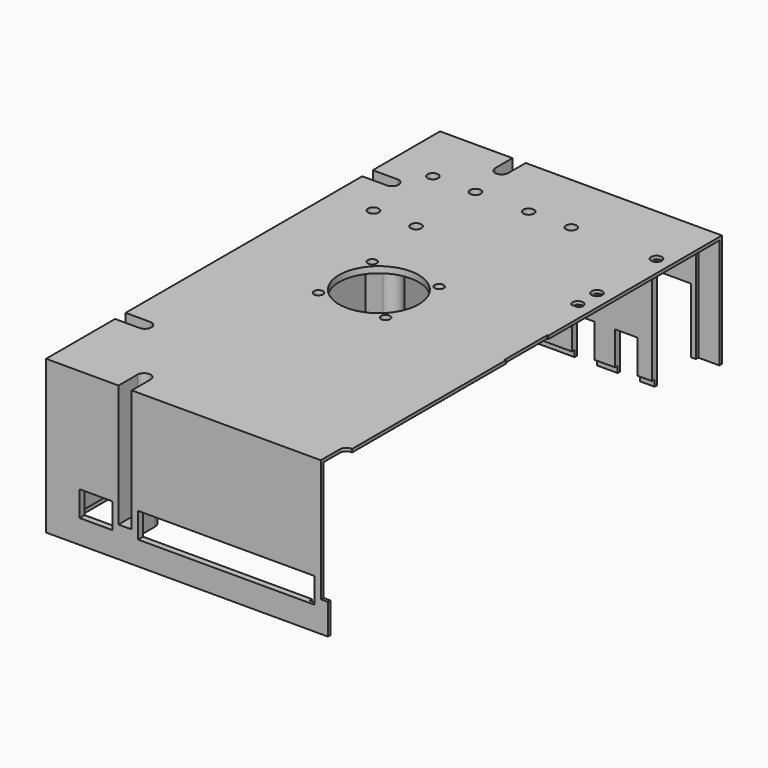
from build123d import *

# Parameters (mm, degrees)
SKETCH_W        = 134.5
SKETCH_H        = 235
PAD_DEPTH       = 3
SKETCH001_W     = 229
SKETCH001_H     = 1.5
POCKET_DEPTH    = 10
PAD001_DEPTH    = 70
SKETCH004_R     = 1.65
HOLE_DEPTH      = 73.001
POCKET003_DEPTH = 58.4
SKETCH005_W     = 10
SKETCH005_H     = 78.808915
POCKET005_DEPTH = 1.5
SKETCH006_W     = 10
SKETCH006_H     = 73.5
POCKET006_DEPTH = 1.5
SKETCH008_W     = 133
SKETCH008_H     = 232
POCKET007_DEPTH = 3
SKETCH009_W     = 131.5
SKETCH009_H     = 229
POCKET008_DEPTH = 8.6
SKETCH010_W     = 15.8
SKETCH010_H     = 12.1
SKETCH010_W_2   = 84.3
POCKET009_DEPTH = 3
SKETCH011_W     = 15
SKETCH011_H     = 16.6
SKETCH011_W_2   = 16.4
SKETCH011_H_2   = 14.1
POCKET010_DEPTH = 3
SKETCH012_W     = 10.7
SKETCH012_H     = 25
POCKET011_DEPTH = 3
POCKET012_DEPTH = 3
SKETCH014_R     = 19
SKETCH014_R_2   = 2.15
POCKET013_DEPTH = 3
SKETCH015_R     = 2.55
POCKET014_DEPTH = 3
SKETCH016_R     = 2.55
POCKET015_DEPTH = 3
SKETCH017_W     = 0.6
SKETCH017_H     = 25.4
POCKET016_DEPTH = 10


with BuildPart() as part:
    # Sketch → Pad (new body)
    with BuildSketch(Plane(origin=(0, 0, 19.5), x_dir=(1, 0, 0), z_dir=(0, 0, -1))):
        with Locations((-67.25, 0)):
            Rectangle(SKETCH_W, SKETCH_H)
    extrude(amount=PAD_DEPTH)

    # Sketch001 (on Face2 of Pad) → Pocket (cut)
    with BuildSketch(Plane(origin=(0, 0, 19.5), x_dir=(0, -1, 0), z_dir=(1, 0, 0))):
        with Locations((0, 2.25)):
            Rectangle(SKETCH001_W, SKETCH001_H)
    extrude(amount=-POCKET_DEPTH, mode=Mode.SUBTRACT)

    # Sketch003 (on Face5 of Pocket) → Pad001 (join)
    with BuildSketch(Plane(origin=(0, 0, 16.5), x_dir=(1, 0, 0), z_dir=(0, 0, -1))):
        with BuildLine():
            Line((0, 117.5), (-134.5, 117.5))
            Line((-134.5, 117.5), (-134.5, -117.5))
            Line((-134.5, -117.5), (0, -117.5))
            Line((0, -117.5), (0, -114.5))
            Line((-91.783702, -114.5), (0, -114.5))
            Line((-91.783702, -106.1), (-91.783702, -114.5))
            ThreePointArc((-91.783702, -106.1), (-96.757711, -101.609149), (-101.73172, -106.1))
            Line((-101.73172, -106.1), (-101.73172, -114.5))
            Line((-131.5, -114.5), (-101.73172, -114.5))
            Line((-131.5, -79.166229), (-131.5, -114.5))
            Line((-123.1, -79.166229), (-131.5, -79.166229))
            ThreePointArc((-123.1, -79.166229), (-118.1, -74.166229), (-123.1, -69.166229))
            Line((-123.1, -69.166229), (-131.5, -69.166229))
            Line((-131.5, 68.104813), (-131.5, -69.166229))
            Line((-123.1, 68.104813), (-131.5, 68.104813))
            ThreePointArc((-123.1, 68.104813), (-118.1, 73.104813), (-123.1, 78.104813))
            Line((-123.1, 78.104813), (-131.5, 78.104813))
            Line((-131.5, 114.5), (-131.5, 78.104813))
            Line((-101.797155, 114.5), (-131.5, 114.5))
            Line((-101.797155, 106.1), (-101.797155, 114.5))
            ThreePointArc((-101.797155, 106.1), (-96.797155, 101.1), (-91.797155, 106.1))
            Line((-91.797155, 106.1), (-91.797155, 114.5))
            Line((0, 114.5), (-91.797155, 114.5))
            Line((0, 117.5), (0, 114.5))
        make_face()
    extrude(amount=PAD001_DEPTH)

    # Sketch004 (on Face13 of Pad001) → Hole (cut, through all)
    with BuildSketch(Plane(origin=(0, 0, -53.5), x_dir=(1, 0, 0), z_dir=(0, 0, -1))):
        with Locations((-96.82, 106.2)):
            Circle(SKETCH004_R)
        with Locations((-122.85, 73.15)):
            Circle(SKETCH004_R)
        with Locations((-122.85, -74.2)):
            Circle(SKETCH004_R)
        with Locations((-96.810638, -107.2)):
            Circle(SKETCH004_R)
        with Locations((-0.274356, 106.680336)):
            Circle(SKETCH004_R)
    extrude(amount=-HOLE_DEPTH, mode=Mode.SUBTRACT)

    # Sketch007 → Pocket003 (cut)
    with BuildSketch(Plane.XY.offset(19.5)):
        with BuildLine():
            ThreePointArc((-99.929967, 107.259603), (-96.77166, 104.006152), (-93.634087, 107.279603))
            Line((-93.634087, 107.279603), (-93.634087, 120.569603))
            Line((-93.634087, 120.569603), (-99.929967, 120.569603))
            Line((-99.929967, 107.259603), (-99.929967, 120.569603))
        make_face()
        with BuildLine():
            ThreePointArc((-122.802247, 71.081053), (-119.643844, 74.21206), (-122.764283, 77.380904))
            Line((-122.764283, 77.380904), (-140.108887, 77.380904))
            Line((-140.108887, 71.081053), (-140.108887, 77.380904))
            Line((-122.802247, 71.081053), (-140.108887, 71.081053))
        make_face()
        with BuildLine():
            ThreePointArc((-122.823533, -76.356012), (-119.665173, -73.253414), (-122.72876, -70.057199))
            Line((-122.72876, -70.057199), (-140.071655, -70.057199))
            Line((-140.071655, -76.356012), (-140.071655, -70.057199))
            Line((-122.823533, -76.356012), (-140.071655, -76.356012))
        make_face()
        with BuildLine():
            ThreePointArc((-93.628425, -106.239093), (-96.778418, -103.095924), (-99.92841, -106.239093))
            Line((-99.92841, -106.239093), (-99.92841, -124.719093))
            Line((-93.628425, -124.719093), (-99.92841, -124.719093))
            Line((-93.628425, -106.239093), (-93.628425, -124.719093))
        make_face()
        with BuildLine():
            ThreePointArc((2.9, -106.2), (-0.25, -103.05), (-3.4, -106.2))
            Line((-3.4, -106.2), (-3.4, -129.57))
            Line((-3.4, -129.57), (2.9, -129.57))
            Line((2.9, -106.2), (2.9, -129.57))
        make_face()
    extrude(amount=-POCKET003_DEPTH, mode=Mode.SUBTRACT)

    # Sketch005 (on Face21 of Hole) → Pocket005 (cut)
    with BuildSketch(Plane(origin=(0, -114.5, 19.5), x_dir=(1, 0, 0), z_dir=(0, 1, 0))):
        with Locations((-5, 40.904457)):
            Rectangle(SKETCH005_W, SKETCH005_H)
    extrude(amount=-POCKET005_DEPTH, mode=Mode.SUBTRACT)

    # Sketch006 → Pocket006 (cut)
    with BuildSketch(Plane(origin=(0, 114.5, 19.5), x_dir=(-1, 0, 0), z_dir=(0, -1, 0))):
        with Locations((5, 38.25)):
            Rectangle(SKETCH006_W, SKETCH006_H)
    extrude(amount=-POCKET006_DEPTH, mode=Mode.SUBTRACT)

    # Sketch008 → Pocket007 (cut)
    with BuildSketch(Plane(origin=(0, 0, -53.5), x_dir=(1, 0, 0), z_dir=(0, 0, -1))):
        with Locations((-66.5, 0)):
            Rectangle(SKETCH008_W, SKETCH008_H)
    extrude(amount=-POCKET007_DEPTH, mode=Mode.SUBTRACT)

    # Sketch009 (on Face52 of Pocket007) → Pocket008 (cut)
    with BuildSketch(Plane(origin=(0, 0, -50.5), x_dir=(1, 0, 0), z_dir=(0, 0, -1))):
        with Locations((-65.75, 0)):
            Rectangle(SKETCH009_W, SKETCH009_H)
    extrude(amount=-POCKET008_DEPTH, mode=Mode.SUBTRACT)

    # Sketch010 (on Face4 of Pocket008) → Pocket009 (cut)
    with BuildSketch(Plane(origin=(0, -117.5, 19.5), x_dir=(-1, 0, 0), z_dir=(0, -1, 0))):
        with Locations((110.6, 55.65)):
            Rectangle(SKETCH010_W, SKETCH010_H)
        with Locations((48.45, 55.65)):
            Rectangle(SKETCH010_W_2, SKETCH010_H)
    extrude(amount=-POCKET009_DEPTH, mode=Mode.SUBTRACT)

    # Sketch011 (on Face29 of Pocket009) → Pocket010 (cut)
    with BuildSketch(Plane(origin=(-134.5, 0, 19.5), x_dir=(0, 1, 0), z_dir=(-1, 0, 0))):
        with Locations((22.75, 40.7)):
            Rectangle(SKETCH011_W, SKETCH011_H)
        with Locations((4.75, 40.7)):
            Rectangle(SKETCH011_W, SKETCH011_H)
        with Locations((-14.05, 41.95)):
            Rectangle(SKETCH011_W_2, SKETCH011_H_2)
    extrude(amount=-POCKET010_DEPTH, mode=Mode.SUBTRACT)

    # Sketch012 (on Face38 of Pocket010) → Pocket011 (cut)
    with BuildSketch(Plane(origin=(0, 117.5, 19.5), x_dir=(1, 0, 0), z_dir=(0, 1, 0))):
        with Locations((-109.75, 66.5)):
            Rectangle(SKETCH012_W, SKETCH012_H)
        with Locations((-63.78, 66.5)):
            Rectangle(SKETCH012_W, SKETCH012_H)
        with Locations((-43.28, 66.5)):
            Rectangle(SKETCH012_W, SKETCH012_H)
        Polygon((-12.4, 23), (-30.9, 23), (-30.9, 82), (-12.4, 82), (-12.4, 79), (8.553992, 79), (8.553992, 54), (-12.4, 54), align=None)
    extrude(amount=-POCKET011_DEPTH, mode=Mode.SUBTRACT)

    # Sketch013 (on Face2 of Pocket011) → Pocket012 (cut)
    with BuildSketch(Plane.XY.offset(19.5)):
        with BuildLine():
            ThreePointArc((-5.655192, 38.77), (-7.28, 43.17), (-8.904808, 38.77))
            Line((-8.904808, 38.77), (-5.655192, 38.77))
        make_face()
    extrude(amount=-POCKET012_DEPTH, mode=Mode.SUBTRACT)

    # Sketch014 (on Face2 of Pocket012) → Pocket013 (cut)
    with BuildSketch(Plane.XY.offset(19.5)):
        with Locations((-72.5, 3.5)):
            Circle(SKETCH014_R)
        with Locations((-88.5, 19.5)):
            Circle(SKETCH014_R_2)
        with Locations((-56.5, 19.5)):
            Circle(SKETCH014_R_2)
        with Locations((-88.5, -12.5)):
            Circle(SKETCH014_R_2)
        with Locations((-56.5, -12.5)):
            Circle(SKETCH014_R_2)
    extrude(amount=-POCKET013_DEPTH, mode=Mode.SUBTRACT)

    # Sketch015 (on Face2 of Pocket013) → Pocket014 (cut)
    with BuildSketch(Plane.XY.offset(19.5)):
        with Locations((-7.28, 52.112)):
            Circle(SKETCH015_R)
    extrude(amount=-POCKET014_DEPTH, mode=Mode.SUBTRACT)

    # Sketch016 (on Face2 of Pocket014) → Pocket015 (cut)
    with BuildSketch(Plane.XY.offset(19.5)):
        with Locations((-7.28, 87.55)):
            Circle(SKETCH016_R)
        with Locations((-47.92, 87.55)):
            Circle(SKETCH016_R)
        with Locations((-68.24, 87.55)):
            Circle(SKETCH016_R)
        with Locations((-93.64, 87.55)):
            Circle(SKETCH016_R)
        with Locations((-113.96, 87.55)):
            Circle(SKETCH016_R)
        with Locations((-113.96, 52.117)):
            Circle(SKETCH016_R)
        with Locations((-93.64, 52.117)):
            Circle(SKETCH016_R)
    extrude(amount=-POCKET015_DEPTH, mode=Mode.SUBTRACT)

    # Sketch017 (on Face2 of Pocket015) → Pocket016 (cut)
    with BuildSketch(Plane.XY.offset(19.5)):
        with Locations((-0.3, 1.31)):
            Rectangle(SKETCH017_W, SKETCH017_H)
    extrude(amount=-POCKET016_DEPTH, mode=Mode.SUBTRACT)


solid = part.part
